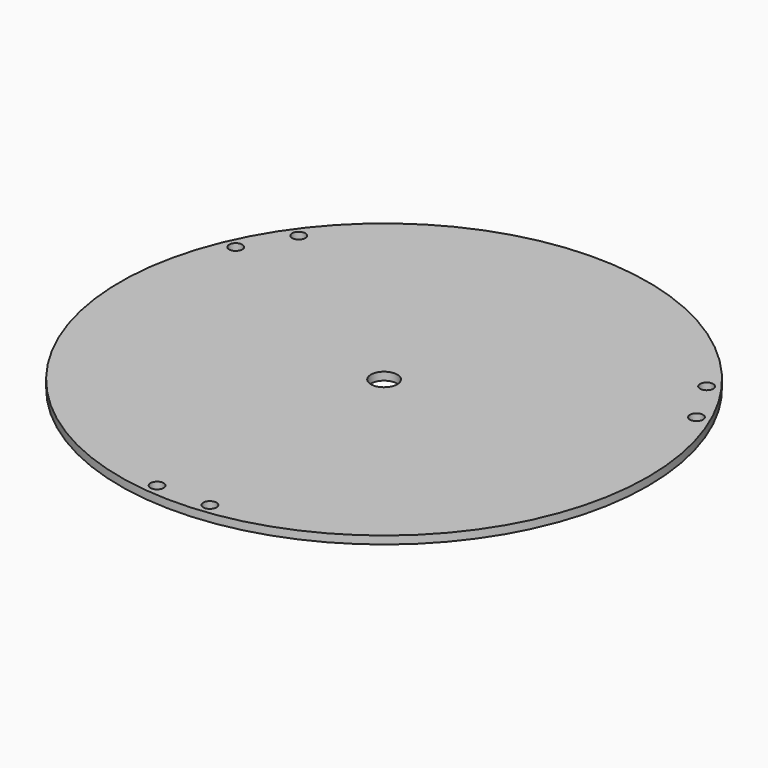
from build123d import *

# Parameters (mm, degrees)
F0_R     = 100
F1_DEPTH = 3
F3_D     = 10
F4_D     = 5


with BuildPart() as f1:
    # F0 (on Top) → F1 (new body)
    with BuildSketch(Plane.XY):
        Circle(F0_R)
    extrude(amount=F1_DEPTH)

    # F3 (through all)
    with Locations(Plane.XY.offset(3)):
        with Locations((0, 0)):
            Hole(F3_D / 2)

    # F4 (through all)
    with Locations(Plane.XY.offset(3)):
        with Locations((-10, -95), (10, -95), (87.272413, 38.839746), (77.272413, 56.160254), (-77.272413, 56.160254), (-87.272413, 38.839746)):
            Hole(F4_D / 2)


solid = f1.part
